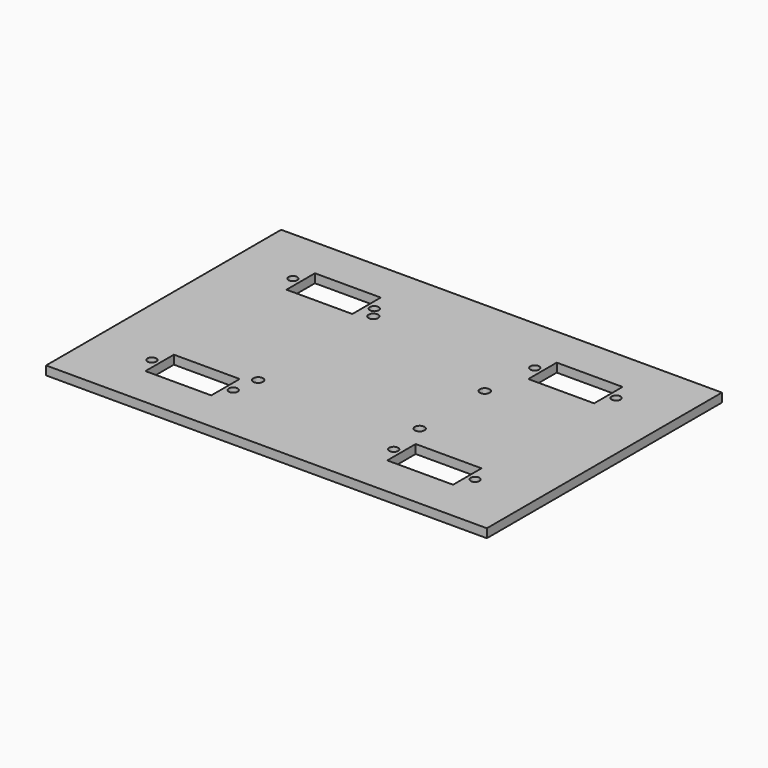
from build123d import *

# Parameters (mm, degrees)
F0_W     = 150
F0_H     = 100
F1_DEPTH = 1.5
F2_R     = 1.5
F2_W     = 22.4
F2_H     = 12.1
F3_DEPTH = 3.001
F4_R     = 1.618849898
F4_R_2   = 1.6569654359
F4_R_3   = 1.6400542831
F4_R_4   = 1.6604885459
F5_DEPTH = 3.001


with BuildPart() as f1:
    # F0 (on Top) → F1 (new body, symmetric)
    with BuildSketch(Plane.XY):
        Rectangle(F0_W, F0_H)
    extrude(amount=F1_DEPTH, both=True)

    # F2 (on face) → F3 (cut, through all)
    with BuildSketch(Plane.XY.offset(1.5)):
        with Locations((-55, -30)):
            Circle(F2_R)
        with Locations((-27.3, -30)):
            Circle(F2_R)
        with Locations((-41.15, -30)):
            Rectangle(F2_W, F2_H)
        with Locations((27.3, -30)):
            Circle(F2_R)
        with Locations((55, -30)):
            Circle(F2_R)
        with Locations((41.15, -30)):
            Rectangle(F2_W, F2_H)
        with Locations((27.3, 30)):
            Circle(F2_R)
        with Locations((55, 30)):
            Circle(F2_R)
        with Locations((41.15, 30)):
            Rectangle(F2_W, F2_H)
        with Locations((-55, 30)):
            Circle(F2_R)
        with Locations((-27.3, 30)):
            Circle(F2_R)
        with Locations((-41.15, 30)):
            Rectangle(F2_W, F2_H)
    extrude(amount=-F3_DEPTH, mode=Mode.SUBTRACT)

    # F4 (on face) → F5 (cut, through all)
    with BuildSketch(Plane.XY.offset(1.5)):
        with Locations((-24.7324935626, 26.3731424032)):
            Circle(F4_R)
        with Locations((25.2215412911, 11.3385100679)):
            Circle(F4_R_2)
        with Locations((25.2285262104, -16.3567047299)):
            Circle(F4_R_3)
        with Locations((-25.7276298944, -21.3546585025)):
            Circle(F4_R_4)
    extrude(amount=-F5_DEPTH, mode=Mode.SUBTRACT)


solid = f1.part
